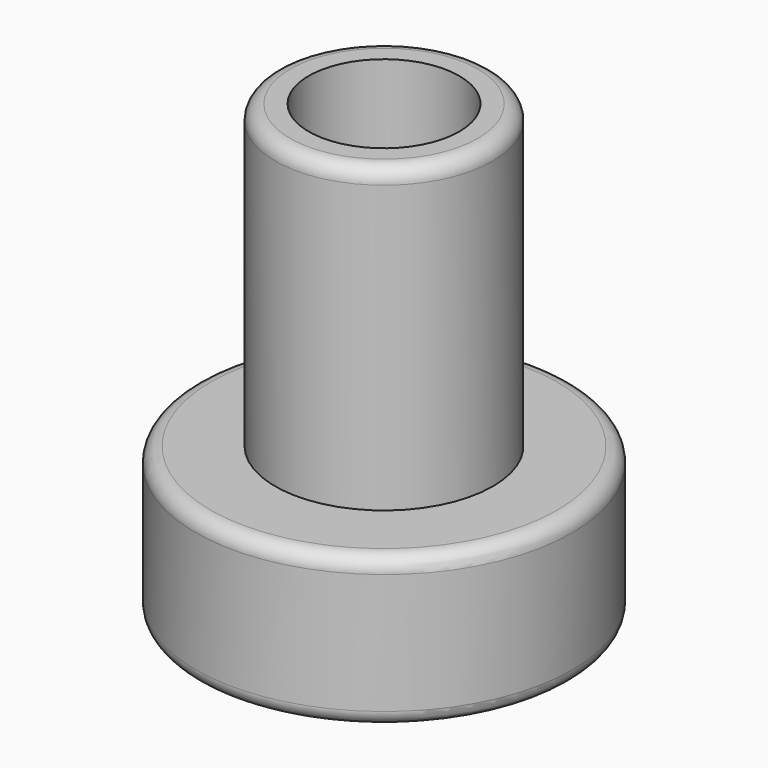
from build123d import *

# Parameters (mm, degrees)
F0_R     = 36.71609
F1_DEPTH = 101.6
F0_R_2   = 63.5
F2_DEPTH = 50.8
F3_R     = 5.08
F4_R     = 25.4
F5_DEPTH = 152.4


with BuildPart() as f1:
    # F0 (on Top) → F1 (new body)
    with BuildSketch(Plane.XY):
        Circle(F0_R)
    extrude(amount=F1_DEPTH)

    # F0 (on Top) → F2 (join)
    with BuildSketch(Plane.XY):
        Circle(F0_R_2)
        Circle(F0_R, mode=Mode.SUBTRACT)
        Circle(F0_R)
    extrude(amount=-F2_DEPTH)

    # F3
    f3_edges = [f1.edges().sort_by_distance(p)[0] for p in [
        (-63.5, 0, 0),
        (-63.5, 0, -50.8),
        (-36.71609, 0, 101.6),
    ]]
    fillet(f3_edges, radius=F3_R)

    # F4 (on face) → F5 (cut)
    with BuildSketch(Plane(origin=(0, 0, -50.8), x_dir=(1, 0, 0), z_dir=(0, 0, -1))):
        Circle(F4_R)
    extrude(amount=-F5_DEPTH, mode=Mode.SUBTRACT)


solid = f1.part
